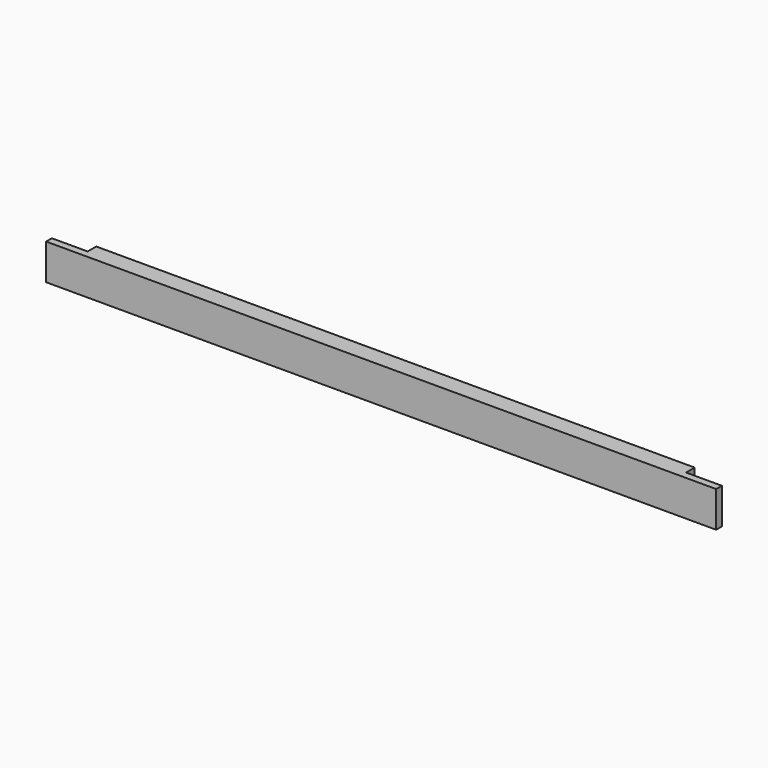
from build123d import *

# Parameters (mm, degrees)
F1_W     = 50
F1_H     = 100
F2_DEPTH = 935
F3_W     = 100
F3_H     = 30
F4_DEPTH = 100.001


with BuildPart() as f2:
    # F1 (on Right) → F2 (new body, symmetric)
    with BuildSketch(Plane.YZ):
        Rectangle(F1_W, F1_H)
    extrude(amount=F2_DEPTH, both=True)

    # F3 (on face) → F4 (cut, through all)
    with BuildSketch(Plane.XY.offset(50)):
        with Locations((-885, 10)):
            Rectangle(F3_W, F3_H)
        with Locations((885, 10)):
            Rectangle(F3_W, F3_H)
    extrude(amount=-F4_DEPTH, mode=Mode.SUBTRACT)


solid = f2.part
